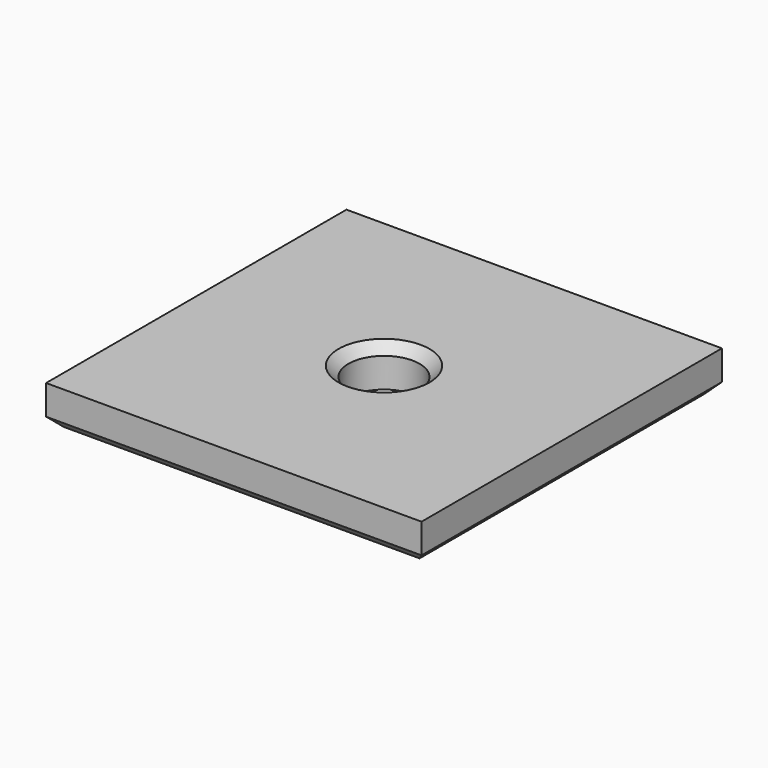
from build123d import *

# Parameters (mm, degrees)
CYLINDER080_R      = 1.8
CYLINDER080_DEPTH  = 10
BOX406008008_W     = 19
BOX406008008_H     = 19
BOX406008008_DEPTH = 2
CHAMFER026_SIZE    = 0.5
CHAMFER027_SIZE    = 0.5


with BuildPart() as cylinder078:
    # Cylinder080 → Cylinder080 (new body)
    with BuildSketch(Plane.XY.offset(-4)):
        Circle(CYLINDER080_R)
    extrude(amount=CYLINDER080_DEPTH)


with BuildPart() as filler_plate:
    # Box406008008 → Box406008008 (new body)
    with BuildSketch(Plane(origin=(-9.5, -9.5, 0), x_dir=(1, 0, 0), z_dir=(0, 0, 1))):
        with Locations((9.5, 9.5)):
            Rectangle(BOX406008008_W, BOX406008008_H)
    extrude(amount=BOX406008008_DEPTH)

    # Cut173011013: cut Cylinder078
    add(cylinder078.part, mode=Mode.SUBTRACT)

    # Chamfer026
    chamfer026_edges = [filler_plate.edges().sort_by_distance(p)[0] for p in [
        (-1.8, 0, 2),
    ]]
    chamfer(chamfer026_edges, length=CHAMFER026_SIZE)

    # Chamfer027
    chamfer027_edges = [filler_plate.edges().sort_by_distance(p)[0] for p in [
        (-9.5, 0, 0),
        (0, 9.5, 0),
        (0, -9.5, 0),
        (9.5, 0, 0),
    ]]
    chamfer(chamfer027_edges, length=CHAMFER027_SIZE)


solid = filler_plate.part
